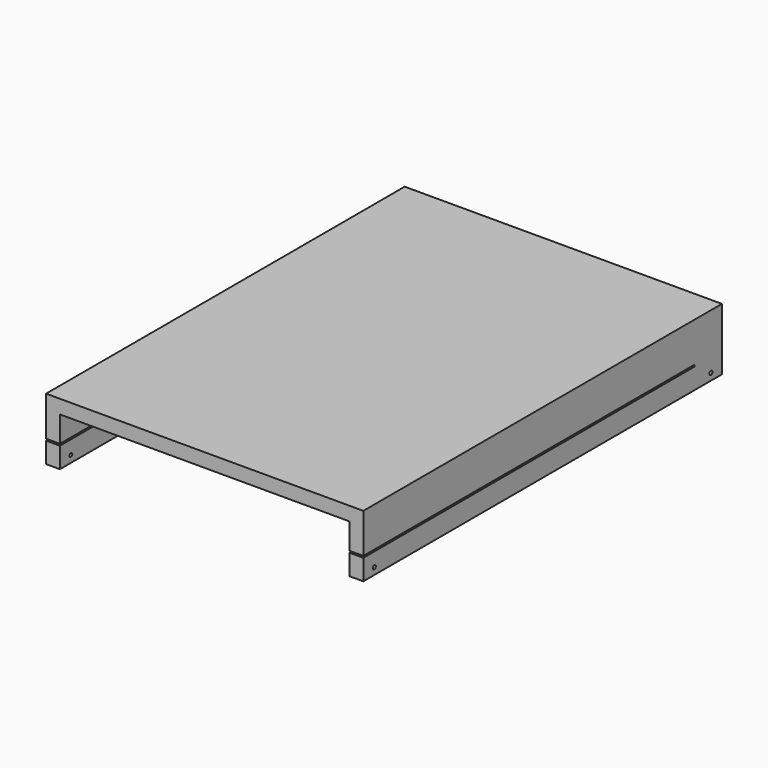
from build123d import *

# Parameters (mm, degrees)
F0_W     = 460
F0_H     = 650
F1_DEPTH = 90
F2_W     = 420
F2_H     = 70
F3_DEPTH = 650.001
F4_W     = 600
F4_H     = 2.5
F5_DEPTH = 460.001
F7_D     = 5
F7_DEPTH = 20.001
F9_D     = 5.5
F9_DEPTH = 20.001


with BuildPart() as f1:
    # F0 (on Top) → F1 (new body)
    with BuildSketch(Plane.XY):
        Rectangle(F0_W, F0_H)
    extrude(amount=F1_DEPTH)

    # F2 (on face) → F3 (cut, through all)
    with BuildSketch(Plane.XZ.offset(325)):
        with Locations((0, 35)):
            Rectangle(F2_W, F2_H)
    extrude(amount=-F3_DEPTH, mode=Mode.SUBTRACT)

    # F4 (on face) → F5 (cut, through all)
    with BuildSketch(Plane.YZ.offset(230)):
        with Locations((-25, 31.25)):
            Rectangle(F4_W, F4_H)
    extrude(amount=-F5_DEPTH, mode=Mode.SUBTRACT)

    # F7 (through all, one way)
    with BuildSketch(Plane.YZ.offset(-210)):
        with Locations((-305, 10), (305, 10)):
            Circle(F7_D / 2)
    extrude(amount=-F7_DEPTH, mode=Mode.SUBTRACT)

    # F9 (through all, one way)
    with BuildSketch(Plane(origin=(210, 0, 0), x_dir=(0, -1, 0), z_dir=(-1, 0, 0))):
        with Locations((305, 10), (-305, 10)):
            Circle(F9_D / 2)
    extrude(amount=-F9_DEPTH, mode=Mode.SUBTRACT)


solid = f1.part
